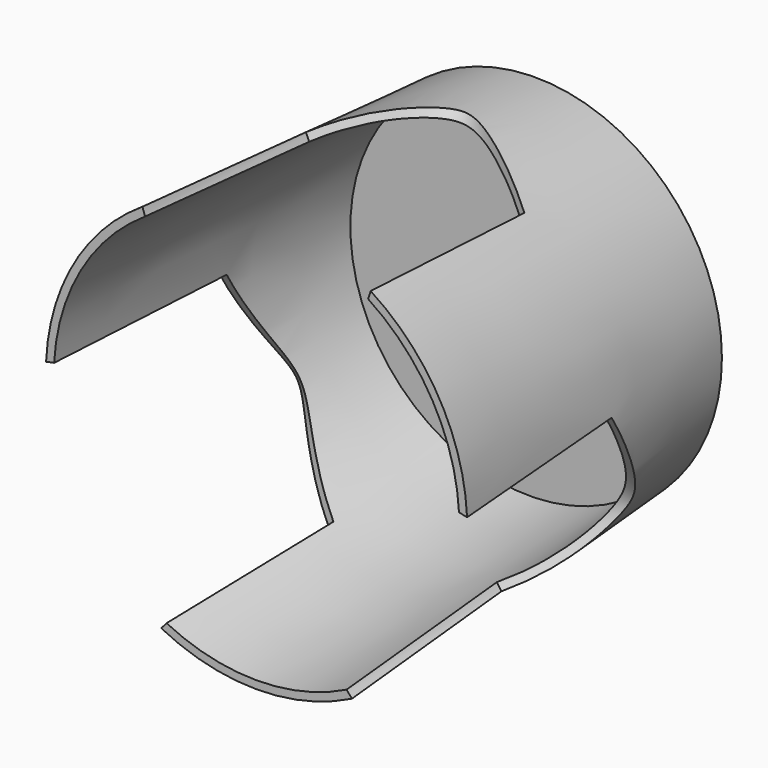
from build123d import *

# Parameters (mm, degrees)
F0_R     = 117.5
F1_DEPTH = 220
F1_TAPER = -4
F2_T     = -5
F3_D     = 20
F3_DEPTH = 200
F3_TIP   = 6.0086061903
F5_D     = 150
F5_DEPTH = 125
F5_TIP   = 45.0645464271


with BuildPart() as f1:
    # F0 (on Front) → F1 (new body)
    with BuildSketch(Plane.XZ):
        Circle(F0_R)
    extrude(amount=F1_DEPTH, taper=F1_TAPER)

    # F2
    f2_openings = [f1.faces().sort_by_distance(p)[0] for p in [
        (0, -220, 0),
    ]]
    offset(amount=F2_T, openings=f2_openings, kind=Kind.INTERSECTION)

    # F3
    with Locations(Plane(origin=(0, 0, 0), x_dir=(1, 0, 0), z_dir=(0, 1, 0))):
        with Locations((1.5845698072, 0)):
            Hole(F3_D / 2, depth=F3_DEPTH)
            with Locations((0, 0, -(F3_DEPTH + F3_TIP / 2))):  # 118° drill point
                Cone(0, F3_D / 2, F3_TIP, mode=Mode.SUBTRACT)

    # F5
    with Locations(Plane.XZ.offset(220)):
        with Locations((0, 132.8838986276), (-114.7513767367, -67.0093430165), (114.7513767367, -67.0093430165)):
            Hole(F5_D / 2, depth=F5_DEPTH)
            with Locations((0, 0, -(F5_DEPTH + F5_TIP / 2))):  # 118° drill point
                Cone(0, F5_D / 2, F5_TIP, mode=Mode.SUBTRACT)


solid = f1.part
